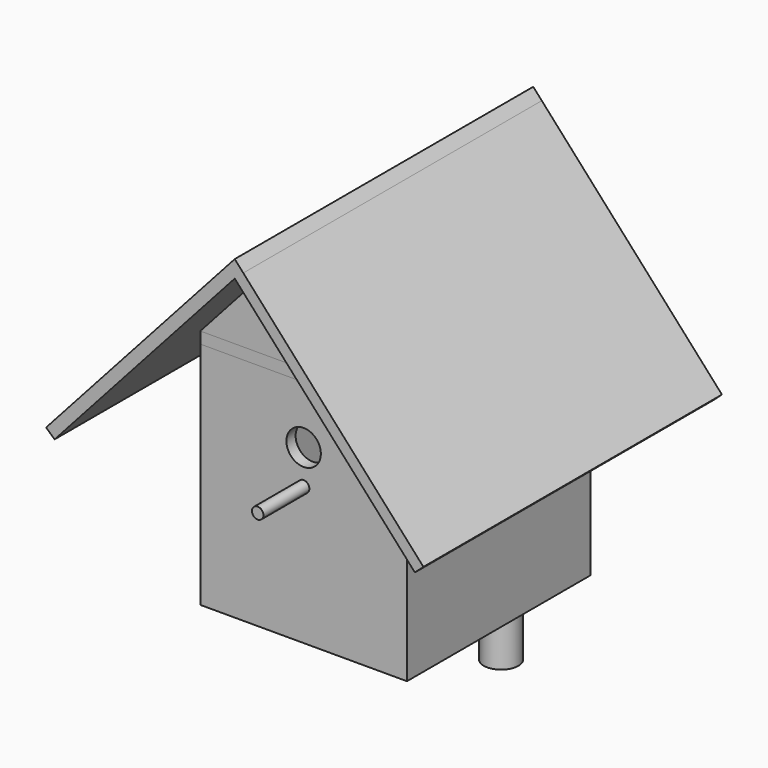
from build123d import *

# Parameters (mm, degrees)
F0_W           = 180
F0_H           = 200
F1_DEPTH       = 200
F2_T           = -10
F3_R           = 15
F4_DEPTH       = 25
F3_R_2         = 5
F5_DEPTH       = 50
F7_DEPTH       = 300
F7_DEPTH_BACK  = 30
F8_W           = 180
F8_H           = 200
F8_W_2         = 160
F8_H_2         = 180
F9_DEPTH       = 10
F11_DEPTH      = 250
F11_DEPTH_BACK = 75
F12_DEPTH      = 10
F13_START      = -190
F13_DEPTH      = 10
F14_R          = 10
F15_DEPTH      = 10
F16_W          = 60
F16_H          = 30
F16_R          = 2.5
F17_DEPTH      = 25
F18_T          = -2.5
F19_DEPTH      = 25


with BuildPart() as f1:
    # F0 (on Top) → F1 (new body)
    with BuildSketch(Plane.XY):
        Rectangle(F0_W, F0_H)
    extrude(amount=F1_DEPTH)

    # F2
    f2_openings = [f1.faces().sort_by_distance(p)[0] for p in [
        (0, 0, 200),
    ]]
    offset(amount=F2_T, openings=f2_openings)

    # F3 (on face) → F4 (cut)
    with BuildSketch(Plane.XZ.offset(100)):
        with Locations((0, 150)):
            Circle(F3_R)
    extrude(amount=-F4_DEPTH, mode=Mode.SUBTRACT)

    # F3 (on face) → F5 (join)
    with BuildSketch(Plane.XZ.offset(100)):
        with Locations((0, 120)):
            Circle(F3_R_2)
    extrude(amount=F5_DEPTH)


with BuildPart() as f7:
    # F6 (on face) → F7 (new body, two sides)
    with BuildSketch(Plane.XY.offset(200)) as f7_sk:
        with BuildLine():
            ThreePointArc((7.38e-08, 100), (10.6066017439, 104.3933983083), (15, 115))
            ThreePointArc((15, 115), (-10.6066017439, 125.6066016917), (7.38e-08, 100))
        make_face()
    extrude(amount=-F7_DEPTH)
    extrude(f7_sk.sketch, amount=F7_DEPTH_BACK)

    # F18
    f18_openings = [f7.faces().sort_by_distance(p)[0] for p in [
        (0, 115, 230),
    ]]
    offset(amount=F18_T, openings=f18_openings)

    # F19 (cut): a face of the model
    f19_faces = [f7.faces().sort_by_distance(p)[0] for p in [
        (0, 115, -97.5),
    ]]
    extrude(f19_faces, amount=-F19_DEPTH, mode=Mode.SUBTRACT)


with BuildPart() as f9:
    # F8 (on face) → F9 (new body)
    with BuildSketch(Plane.XY.offset(200)):
        Rectangle(F8_W, F8_H)
        Rectangle(F8_W_2, F8_H_2, mode=Mode.SUBTRACT)
        Rectangle(F8_W_2, F8_H_2)
    extrude(amount=F9_DEPTH)

    # F16 (on face) → F17 (cut)
    with BuildSketch(Plane.XY.offset(210)):
        Rectangle(F16_W, F16_H)
        with Locations((-30, 80)):
            Circle(F16_R)
    extrude(amount=-F17_DEPTH, mode=Mode.SUBTRACT)


with BuildPart() as f11:
    # F10 (on face) → F11 (new body, two sides)
    with BuildSketch(Plane.XZ.offset(100)) as f11_sk:
        Polygon((-90, 210), (0, 310), (90, 210), (156.8964731622, 135.6705853753), (164.3294146247, 142.3602326915), (97.4329414625, 216.6896473162), (7.4329414625, 316.6896473162), (0, 324.9484711634), (-7.4329414625, 316.6896473162), (-97.4329414625, 216.6896473162), (-164.3294146247, 142.3602326915), (-156.8964731622, 135.6705853753), align=None)
    extrude(amount=-F11_DEPTH)
    extrude(f11_sk.sketch, amount=F11_DEPTH_BACK)


with BuildPart() as f12:
    # F10 (on face) → F12 (new body)
    with BuildSketch(Plane.XZ.offset(100)):
        Polygon((90, 210), (0, 310), (-90, 210), align=None)
    extrude(amount=-F12_DEPTH)


with BuildPart() as f13:
    # F10 (on face) → F13 (new body)
    with BuildSketch(Plane.XZ.offset(100).offset(F13_START)):
        Polygon((90, 210), (0, 310), (-90, 210), align=None)
    extrude(amount=-F13_DEPTH)

    # F14 (on face) → F15 (cut)
    with BuildSketch(Plane(origin=(0, 100, 0), x_dir=(-1, 0, 0), z_dir=(0, 1, 0))):
        with Locations((0, 241.9616430998)):
            Circle(F14_R)
    extrude(amount=-F15_DEPTH, mode=Mode.SUBTRACT)


solid = Compound([f1.part, f7.part, f9.part, f11.part, f12.part, f13.part])
